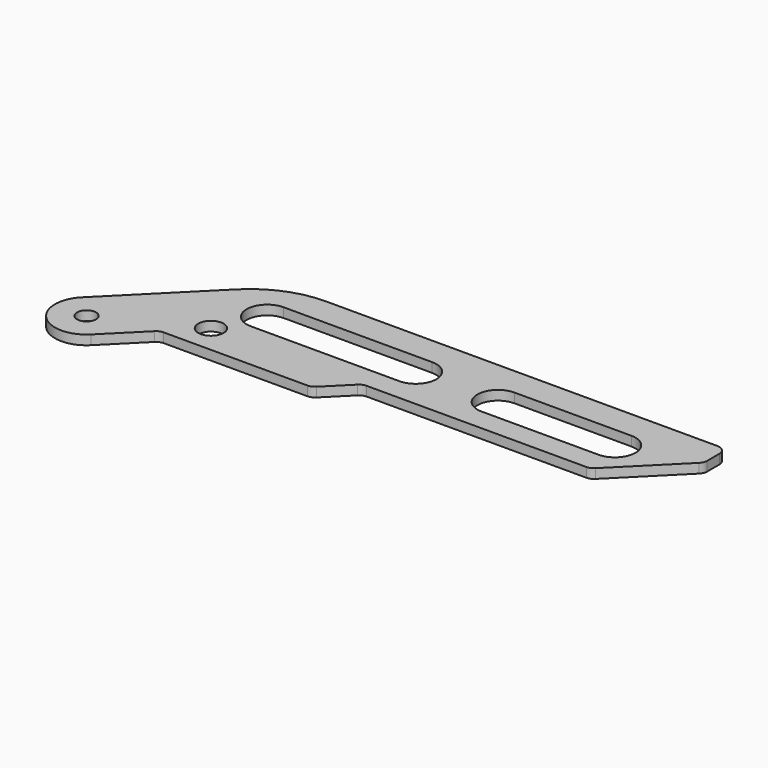
from build123d import *

# Parameters (mm, degrees)
F0_R     = 3
F0_R_2   = 4
F1_DEPTH = 3


with BuildPart() as f1:
    # F0 (on Top) → F1 (new body)
    with BuildSketch(Plane.XY):
        with BuildLine():
            Line((-325.42325, 35.988802), (-352.565385, 8.846666))
            ThreePointArc((-352.565385, 8.846666), (-352.565385, -5.29547), (-338.42325, -5.29547))
            Line((-338.42325, -5.29547), (-327.230861, 5.896919))
            ThreePointArc((-327.230861, 5.896919), (-326.257591, 6.547237), (-325.109541, 6.775598))
            Line((-325.109541, 6.775598), (-279.594822, 6.775598))
            ThreePointArc((-279.594822, 6.775598), (-278.446772, 7.00396), (-277.473502, 7.654278))
            Line((-277.473502, 7.654278), (-270.230861, 14.896919))
            ThreePointArc((-270.230861, 14.896919), (-269.257721, 15.547183), (-268.109822, 15.775598))
            Line((-268.109822, 15.775598), (-198.594822, 15.775598))
            ThreePointArc((-198.594822, 15.775598), (-197.446777, 16.003958), (-196.473509, 16.654271))
            Line((-196.473509, 16.654271), (-178.230861, 34.896919))
            ThreePointArc((-178.230861, 34.896919), (-177.580474, 35.870355), (-177.352182, 37.018598))
            Line((-177.352182, 37.018598), (-177.352182, 41.775598))
            ThreePointArc((-177.352182, 41.775598), (-178.230861, 43.896919), (-180.352182, 44.775598))
            Line((-180.352182, 44.775598), (-304.210046, 44.775598))
            ThreePointArc((-304.210046, 44.775598), (-315.690549, 42.491984), (-325.42325, 35.988802))
        make_face()
        with Locations((-345.494317, 1.775598)):
            Circle(F0_R, mode=Mode.SUBTRACT)
        with Locations((-317.352182, 15.775598)):
            Circle(F0_R_2, mode=Mode.SUBTRACT)
        with BuildLine():
            ThreePointArc((-310.352182, 22.775598), (-316.852182, 29.275598), (-310.352182, 35.775598))
            Line((-310.352182, 35.775598), (-263.352182, 35.775598))
            ThreePointArc((-263.352182, 35.775598), (-256.852182, 29.275598), (-263.352182, 22.775598))
            Line((-263.352182, 22.775598), (-310.352182, 22.775598))
        make_face(mode=Mode.SUBTRACT)
        with BuildLine():
            ThreePointArc((-237.352182, 22.775598), (-243.852182, 29.275598), (-237.352182, 35.775598))
            Line((-237.352182, 35.775598), (-200.352182, 35.775598))
            ThreePointArc((-200.352182, 35.775598), (-193.852182, 29.275598), (-200.352182, 22.775598))
            Line((-200.352182, 22.775598), (-237.352182, 22.775598))
        make_face(mode=Mode.SUBTRACT)
    extrude(amount=F1_DEPTH)


solid = f1.part
